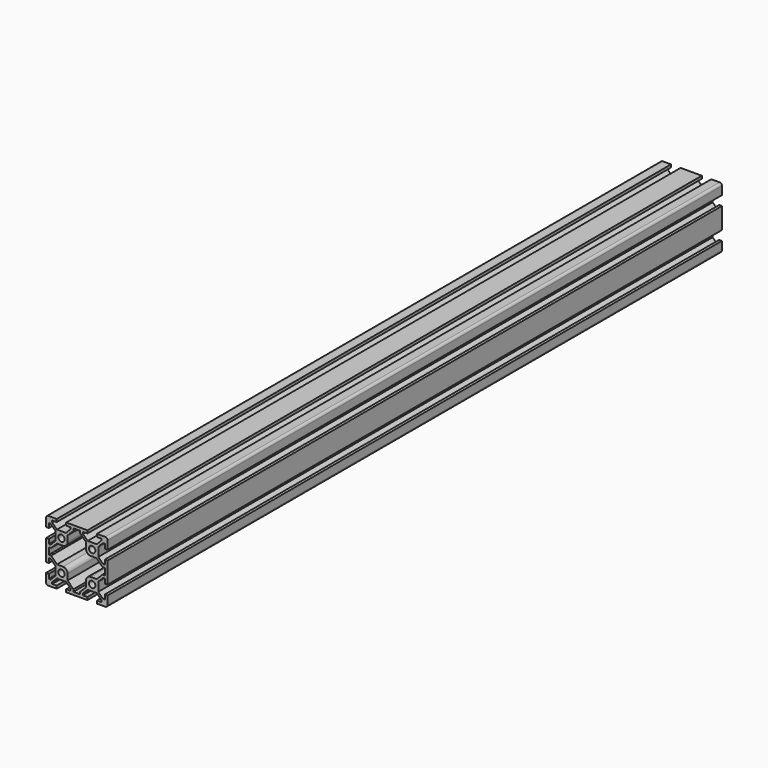
from build123d import *

# Parameters (mm, degrees)
SKETCH013_W           = 40
SKETCH013_H           = 40
PAD007_DEPTH          = 250
POCKET006_DEPTH       = 1256.38065
POCKET006_DEPTH_BACK  = 1256.38065
POLARPATTERN001_COUNT = 4
POCKET007_DEPTH       = 250.001
POCKET007_DEPTH_BACK  = 250.001
SKETCH012_R           = 2.1
POCKET005_DEPTH       = 500.001
FILLET002_R           = 1.5
FILLET003_R           = 3


with BuildPart() as part:
    # Sketch013 → Pad007 (new body, symmetric)
    with BuildSketch(Plane.XZ):
        Rectangle(SKETCH013_W, SKETCH013_H)
    extrude(amount=PAD007_DEPTH, both=True)

    # Sketch014 → Pocket006 (cut, two sides)
    with BuildSketch(Plane(origin=(-10, 0, 0), x_dir=(1, 0, 0), z_dir=(0, -1, 0))) as pocket006_sk:
        Polygon((-3.1, 21), (3.1, 21), (3.1, 18.2), (6, 18.2), (6, 17.06066), (2.93934, 14), (-2.93934, 14), (-6, 17.06066), (-6, 18.2), (-3.1, 18.2), align=None)
        Polygon((16.9, 21), (16.9, 18.2), (14, 18.2), (14, 17.06066), (17.06066, 14), (22.93934, 14), (26, 17.06066), (26, 18.2), (23.1, 18.2), (23.1, 21), align=None)
    pocket006 = extrude(amount=-POCKET006_DEPTH, mode=Mode.SUBTRACT) + extrude(pocket006_sk.sketch, amount=POCKET006_DEPTH_BACK, mode=Mode.SUBTRACT)

    # PolarPattern001: Pocket006 ×4 about axis
    polarpattern001_axis = Axis((0, 0, 0), (0, 1, 0))
    for i in range(1, POLARPATTERN001_COUNT):
        add(pocket006.rotate(polarpattern001_axis, i * 360 / POLARPATTERN001_COUNT), mode=Mode.SUBTRACT)

    # Sketch015 → Pocket007 (cut, two sides)
    with BuildSketch(Plane.XZ) as pocket007_sk:
        Polygon((2.2, 18.2), (-2.2, 18.2), (-2.2, 16.73934), (-6, 12.93934), (-6, 6), (-12.93934, 6), (-16.73934, 2.2), (-18.2, 2.2), (-18.2, -2.2), (-16.73934, -2.2), (-12.93934, -6), (-6, -6), (-6, -12.93934), (-2.2, -16.73934), (-2.2, -18.2), (2.2, -18.2), (2.2, -16.73934), (6, -12.93934), (6, -6), (12.93934, -6), (16.73934, -2.2), (18.2, -2.2), (18.2, 2.2), (16.73934, 2.2), (12.93934, 6), (6, 6), (6, 12.93934), (2.2, 16.73934), align=None)
    extrude(amount=-POCKET007_DEPTH, mode=Mode.SUBTRACT)
    extrude(pocket007_sk.sketch, amount=POCKET007_DEPTH_BACK, mode=Mode.SUBTRACT)

    # Sketch012 → Pocket005 (cut, through all)
    with BuildSketch(Plane.XZ.offset(250)):
        with Locations((-10, 10)):
            Circle(SKETCH012_R)
        with Locations((10, 10)):
            Circle(SKETCH012_R)
        with Locations((10, -10)):
            Circle(SKETCH012_R)
        with Locations((-10, -10)):
            Circle(SKETCH012_R)
    extrude(amount=-POCKET005_DEPTH, mode=Mode.SUBTRACT)

    # Fillet002
    fillet002_edges = [part.edges().sort_by_distance(p)[0] for p in [
        (-20, 0, 20),
        (20, 0, -20),
        (-20, 0, -20),
        (20, 0, 20),
    ]]
    fillet(fillet002_edges, radius=FILLET002_R)

    # Fillet003
    fillet003_edges = [part.edges().sort_by_distance(p)[0] for p in [
        (-6, 0, 6),
        (-6, 0, -6),
        (6, 0, -6),
        (6, 0, 6),
    ]]
    fillet(fillet003_edges, radius=FILLET003_R)


with BuildPart() as part_1:
    # Body008 placement: moved
    add(part.part.moved(Location((0, 0, -30))))


solid = part_1.part
